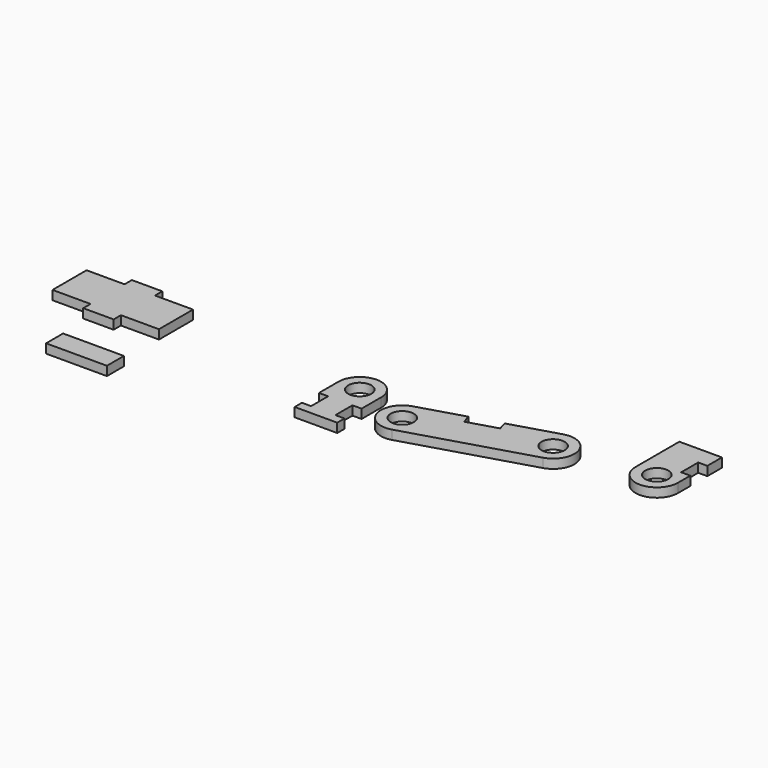
from build123d import *

# Parameters (mm, degrees)
F0_R     = 3.8
F1_DEPTH = 3
F3_DEPTH = 3
F4_R     = 3.8
F5_DEPTH = 3
F6_W     = 20
F6_H     = 7
F7_DEPTH = 3
F6_W_2   = 10
F6_H_2   = 3


with BuildPart() as f1:
    # F0 (on Top) → F1 (new body)
    with BuildSketch(Plane.XY):
        with BuildLine():
            ThreePointArc((7, 5.5), (0, -1.5), (-7, 5.5))
            Line((-7, 5.5), (-7, -2.5))
            Line((-7, -2.5), (-4, -2.5))
            Line((-4, -2.5), (-4, -9.5))
            Line((-4, -9.5), (-7, -9.5))
            Line((-7, -9.5), (-7, -12.5))
            Line((-7, -12.5), (7, -12.5))
            Line((7, -12.5), (7, -9.5))
            Line((7, -9.5), (4, -9.5))
            Line((4, -9.5), (4, -2.5))
            Line((4, -2.5), (7, -2.5))
            Line((7, -2.5), (7, 5.5))
        make_face()
        with BuildLine():
            ThreePointArc((7, 5.5), (4.9497474683, 10.4497474683), (0, 12.5))
            ThreePointArc((0, 12.5), (-4.9497474683, 10.4497474683), (-7, 5.5))
            ThreePointArc((-7, 5.5), (0, -1.5), (7, 5.5))
        make_face()
        with Locations((0, 5.5)):
            Circle(F0_R, mode=Mode.SUBTRACT)
    extrude(amount=F1_DEPTH)


with BuildPart() as f3:
    # F2 (on Top) → F3 (new body)
    with BuildSketch(Plane.XY):
        with BuildLine():
            Line((51.6750069835, 9.988564801), (25.0845749766, 2.011435199))
            ThreePointArc((25.0845749766, 2.011435199), (25.3055937485, 1.0164920128), (25.37979098, 0))
            ThreePointArc((25.37979098, 0), (23.995841478, -4.1785137075), (20.391226179, -6.7047839965))
            Line((20.391226179, -6.7047839965), (60.391226179, 5.2952160035))
            ThreePointArc((60.391226179, 5.2952160035), (55.0610922188, 5.8367023005), (51.6750069835, 9.988564801))
        make_face()
        with BuildLine():
            ThreePointArc((25.37979098, 0), (25.3055937485, 1.0164920128), (25.0845749766, 2.011435199))
            ThreePointArc((25.0845749766, 2.011435199), (21.6984897413, 6.1632976995), (16.368355781, 6.7047839965))
            ThreePointArc((16.368355781, 6.7047839965), (11.6750069835, -2.011435199), (20.391226179, -6.7047839965))
            ThreePointArc((20.391226179, -6.7047839965), (23.995841478, -4.1785137075), (25.37979098, 0))
        make_face()
        with BuildLine():
            ThreePointArc((22.17979098, 0), (14.6200694771, -0.5518099498), (22.0195308639, 1.0919219652))
            ThreePointArc((22.0195308639, 1.0919219652), (22.1395124829, 0.5518099498), (22.17979098, 0))
        make_face(mode=Mode.SUBTRACT)
        with BuildLine():
            ThreePointArc((56.368355781, 18.7047839965), (52.2164932806, 15.3186987612), (51.6750069835, 9.988564801))
            ThreePointArc((51.6750069835, 9.988564801), (55.0610922188, 5.8367023005), (60.391226179, 5.2952160035))
            ThreePointArc((60.391226179, 5.2952160035), (63.995841478, 7.8214862925), (65.37979098, 12))
            ThreePointArc((65.37979098, 12), (62.5583046875, 17.616050498), (56.368355781, 18.7047839965))
        make_face()
        with BuildLine():
            ThreePointArc((62.17979098, 12), (58.9316009298, 8.2402784971), (54.7400510962, 10.9080780348))
            ThreePointArc((54.7400510962, 10.9080780348), (57.8279810302, 15.7597215029), (62.17979098, 12))
        make_face(mode=Mode.SUBTRACT)
        with BuildLine():
            ThreePointArc((16.368355781, 6.7047839965), (21.6984897413, 6.1632976995), (25.0845749766, 2.011435199))
            Line((25.0845749766, 2.011435199), (51.6750069835, 9.988564801))
            ThreePointArc((51.6750069835, 9.988564801), (52.2164932806, 15.3186987612), (56.368355781, 18.7047839965))
            Line((56.368355781, 18.7047839965), (40.7929260542, 14.0321550785))
            Line((40.7929260542, 14.0321550785), (41.6549697109, 11.1586762228))
            Line((41.6549697109, 11.1586762228), (32.0767068587, 8.2851973672))
            Line((32.0767068587, 8.2851973672), (31.214663202, 11.1586762228))
            Line((31.214663202, 11.1586762228), (16.368355781, 6.7047839965))
        make_face()
    extrude(amount=F3_DEPTH)


with BuildPart() as f5:
    # F4 (on Top) → F5 (new body)
    with BuildSketch(Plane.XY):
        with BuildLine():
            ThreePointArc((94.0739545167, 21.1227408759), (95.6283794194, 18.8344878775), (96.1749750311, 16.1227408759))
            Line((96.1749750311, 16.1227408759), (96.1749750311, 21.1227408759))
            Line((96.1749750311, 21.1227408759), (94.0739545167, 21.1227408759))
        make_face()
        with BuildLine():
            ThreePointArc((82.1749750311, 16.1227408759), (89.1749750311, 9.1227408759), (96.1749750311, 16.1227408759))
            ThreePointArc((96.1749750311, 16.1227408759), (95.6283794194, 18.8344878775), (94.0739545167, 21.1227408759))
            Line((94.0739545167, 21.1227408759), (93.1749750311, 21.1227408759))
            Line((93.1749750311, 21.1227408759), (93.1749750311, 21.8673035224))
            ThreePointArc((93.1749750311, 21.8673035224), (85.9346046819, 22.3275776989), (82.1749750311, 16.1227408759))
        make_face()
        with Locations((89.1749750311, 16.1227408759)):
            Circle(F4_R, mode=Mode.SUBTRACT)
        with BuildLine():
            Line((82.1749750311, 34.1227408759), (82.1749750311, 16.1227408759))
            ThreePointArc((82.1749750311, 16.1227408759), (85.9346046819, 22.3275776989), (93.1749750311, 21.8673035224))
            Line((93.1749750311, 21.8673035224), (93.1749750311, 28.1227408759))
            Line((93.1749750311, 28.1227408759), (96.1749750311, 28.1227408759))
            Line((96.1749750311, 28.1227408759), (96.1749750311, 34.1227408759))
            Line((96.1749750311, 34.1227408759), (82.1749750311, 34.1227408759))
        make_face()
    extrude(amount=F5_DEPTH)


with BuildPart() as f7:
    # F6 (on Top) → F7 (new body)
    with BuildSketch(Plane.XY):
        with Locations((-68.9444036782, -21.2251242399)):
            Rectangle(F6_W, F6_H)
    extrude(amount=F7_DEPTH)


with BuildPart() as f7b:
    # F6 (on Top) → F7, piece 2 (new body)
    with BuildSketch(Plane.XY):
        Polygon((-73.7027868629, -0.5160745028), (-61.2027868629, -0.5160745028), (-61.2027868629, 13.4839254972), (-73.7027868629, 13.4839254972), (-73.7027868629, 10.4839254972), (-83.7027868629, 10.4839254972), (-83.7027868629, 13.4839254972), (-96.2027868629, 13.4839254972), (-96.2027868629, -0.5160745028), (-83.7027868629, -0.5160745028), (-83.7027868629, 2.4839254972), (-73.7027868629, 2.4839254972), align=None)
        with Locations((-78.7027868629, 0.9839254972)):
            Rectangle(F6_W_2, F6_H_2)
        with Locations((-78.7027868629, -2.0160745028)):
            Rectangle(F6_W_2, F6_H_2)
        with Locations((-78.7027868629, 14.9839254972)):
            Rectangle(F6_W_2, F6_H_2)
        with Locations((-78.7027868629, 11.9839254972)):
            Rectangle(F6_W_2, F6_H_2)
    extrude(amount=F7_DEPTH)


solid = Compound([f1.part, f3.part, f5.part, f7.part, f7b.part])
